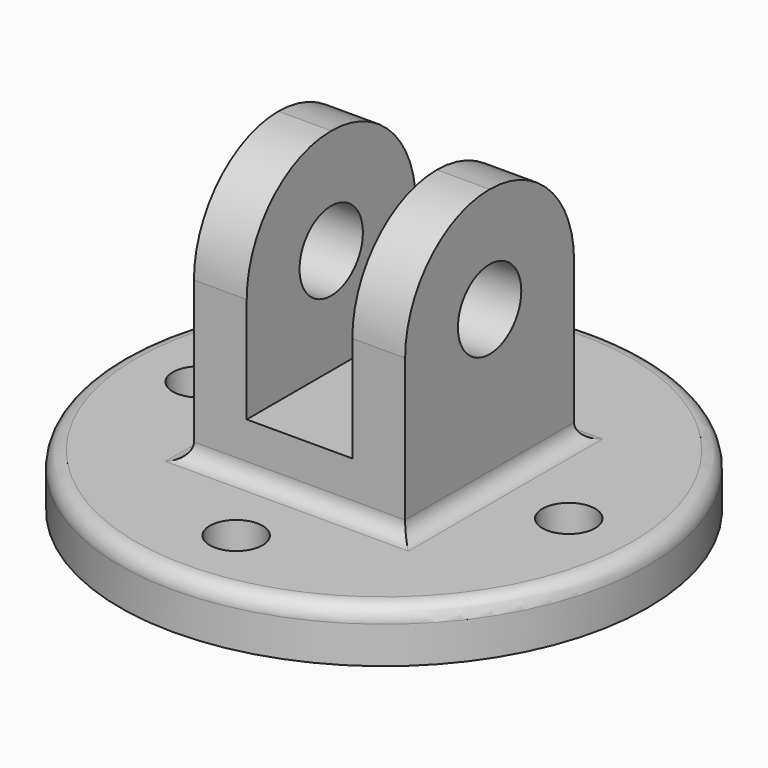
from build123d import *

# Parameters (mm, degrees)
F0_R     = 63.5
F0_R_2   = 6.35
F0_W     = 12.7
F0_H     = 50.8
F0_W_2   = 25.4
F1_DEPTH = 12.7
F2_DEPTH = 63.5
F3_DEPTH = 12.7
F5_DEPTH = 88.901
F4_R     = 9.525
F6_DEPTH = 88.901
F7_R     = 3.81


with BuildPart() as f1:
    # F0 (on Top) → F1 (new body)
    with BuildSketch(Plane.XY):
        Circle(F0_R)
        with Locations((0, -44.45)):
            Circle(F0_R_2, mode=Mode.SUBTRACT)
        with Locations((-44.45, 0)):
            Circle(F0_R_2, mode=Mode.SUBTRACT)
        Polygon((-25.4, -25.4), (-25.4, 25.4), (-12.7, 25.4), (12.7, 25.4), (25.4, 25.4), (25.4, -25.4), (12.7, -25.4), (-12.7, -25.4), align=None, mode=Mode.SUBTRACT)
        with Locations((44.45, 0)):
            Circle(F0_R_2, mode=Mode.SUBTRACT)
        with Locations((0, 44.45)):
            Circle(F0_R_2, mode=Mode.SUBTRACT)
        with Locations((-19.05, 0)):
            Rectangle(F0_W, F0_H)
        Rectangle(F0_W_2, F0_H)
        with Locations((19.05, 0)):
            Rectangle(F0_W, F0_H)
    extrude(amount=-F1_DEPTH)

    # F0 (on Top) → F2 (join)
    with BuildSketch(Plane.XY):
        with Locations((-19.05, 0)):
            Rectangle(F0_W, F0_H)
        with Locations((19.05, 0)):
            Rectangle(F0_W, F0_H)
    extrude(amount=F2_DEPTH)

    # F0 (on Top) → F3 (join)
    with BuildSketch(Plane.XY):
        Rectangle(F0_W_2, F0_H)
    extrude(amount=F3_DEPTH)

    # F4 (on face) → F5 (cut, through all)
    with BuildSketch(Plane.YZ.offset(25.4)):
        with BuildLine():
            Line((-25.4, 63.5), (-25.4, 38.1))
            ThreePointArc((-25.4, 38.1), (-17.960512, 56.060512), (0, 63.5))
            Line((0, 63.5), (-25.4, 63.5))
        make_face()
        with BuildLine():
            ThreePointArc((0, 63.5), (17.960512, 56.060512), (25.4, 38.1))
            Line((25.4, 38.1), (25.4, 63.5))
            Line((25.4, 63.5), (0, 63.5))
        make_face()
    extrude(amount=-F5_DEPTH, mode=Mode.SUBTRACT)

    # F4 (on face) → F6 (cut, through all)
    with BuildSketch(Plane.YZ.offset(25.4)):
        with Locations((0, 38.1)):
            Circle(F4_R)
    extrude(amount=-F6_DEPTH, mode=Mode.SUBTRACT)

    # F7
    f7_edges = [f1.edges().sort_by_distance(p)[0] for p in [
        (25.4, 0, 0),
        (0, -25.4, 0),
        (-25.4, 0, 0),
        (0, 25.4, 0),
        (-63.5, 0, 0),
    ]]
    fillet(f7_edges, radius=F7_R)


solid = f1.part
